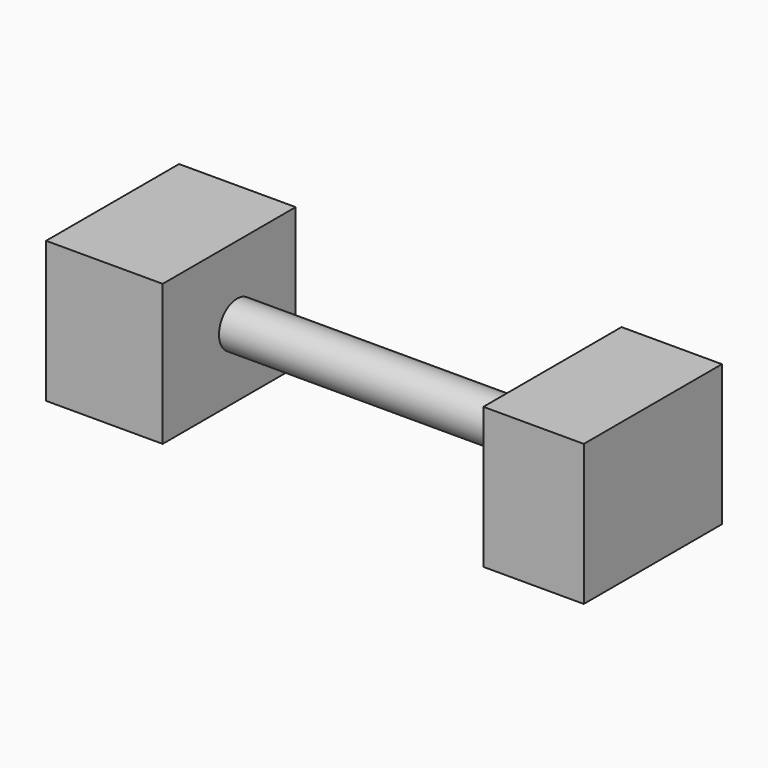
from build123d import *

# Parameters (mm, degrees)
F0_W     = 18.095106
F0_H     = 31.11802
F1_DEPTH = 25.4
F2_W     = 21.01551
F2_H     = 29.956792
F3_DEPTH = 25.4
F4_R     = 4.058102
F5_DEPTH = 60.892928


with BuildPart() as f1:
    # F0 (on Top) → F1 (new body)
    with BuildSketch(Plane.XY):
        with Locations((35.108224, -2.248131)):
            Rectangle(F0_W, F0_H)
    extrude(amount=F1_DEPTH)


with BuildPart() as f3:
    # F2 (on Top) → F3 (new body)
    with BuildSketch(Plane.XY):
        with Locations((-43.099418, -1.762664)):
            Rectangle(F2_W, F2_H)
    extrude(amount=F3_DEPTH)


with BuildPart() as f5:
    # F4 (on face) → F5 (new body)
    with BuildSketch(Plane(origin=(26.060671, 0, 0), x_dir=(0, -1, 0), z_dir=(-1, 0, 0))):
        with Locations((0, 12.192026)):
            Circle(F4_R)
    extrude(amount=F5_DEPTH)


solid = Compound([f1.part, f3.part, f5.part])
